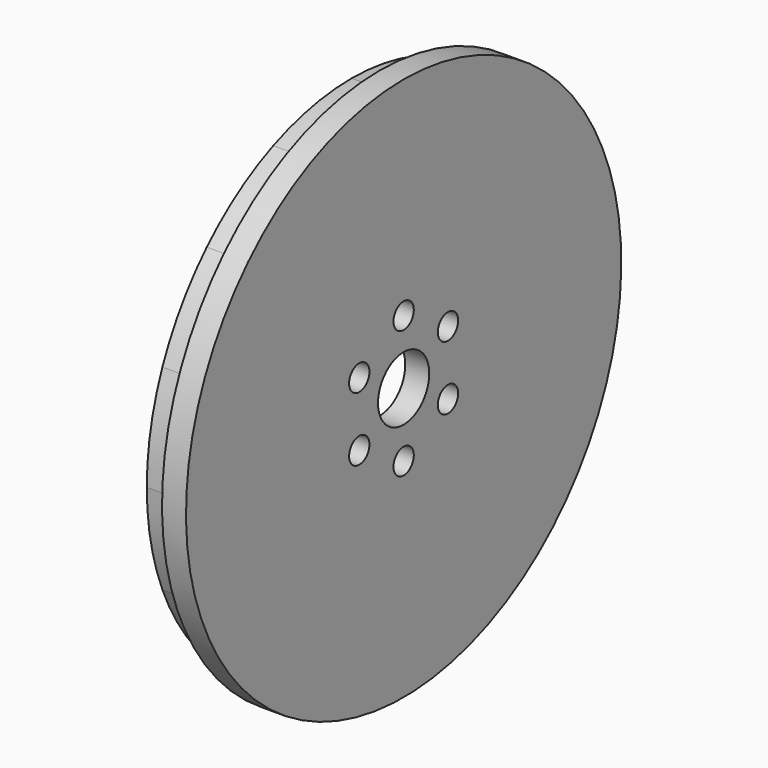
from build123d import *

# Parameters (mm, degrees)
F2_ANGLE = 22.5
F3_COUNT = 16
F5_D     = 10.0838


with BuildPart() as f1:
    # F0 (on Front) → F1 (revolve)
    with BuildSketch(Plane.XZ):
        Polygon((-9.525, 50.8), (-9.525, 12.7), (0, 12.7), (0, 107.95), (-9.525, 107.95), (-9.525, 101.6), (-7.9375, 101.6), (-7.9375, 50.8), align=None)
    revolve(axis=Axis((0, 0, 0), (1, 0, 0)))

    # F5 (through all)
    with Locations(Plane(origin=(-9.525, 0, 0), x_dir=(0, -1, 0), z_dir=(-1, 0, 0))):
        with Locations((0, 25.4), (-21.9970452561, 12.7), (-21.9970452561, -12.7), (0, -25.4), (21.9970452561, -12.7), (21.9970452561, 12.7)):
            Hole(F5_D / 2)


with BuildPart() as f2:
    # F0 (on Front) → F2 (revolve)
    with BuildSketch(Plane.XZ):
        Polygon((-20.6375, 50.8), (-9.525, 50.8), (-7.9375, 50.8), (-7.9375, 101.6), (-9.525, 101.6), (-20.6375, 101.6), align=None)
    revolve(axis=Axis((0, 0, 0), (1, 0, 0)), revolution_arc=F2_ANGLE)


with BuildPart() as f3_1:
    # F3: instance of F2
    add(f2.part.rotate(Axis((0, 0, 0), (1, 0, 0)), 1 * 360 / F3_COUNT))


with BuildPart() as f3_2:
    # F3: instance of F2
    add(f2.part.rotate(Axis((0, 0, 0), (1, 0, 0)), 2 * 360 / F3_COUNT))


with BuildPart() as f3_3:
    # F3: instance of F2
    add(f2.part.rotate(Axis((0, 0, 0), (1, 0, 0)), 3 * 360 / F3_COUNT))


with BuildPart() as f3_4:
    # F3: instance of F2
    add(f2.part.rotate(Axis((0, 0, 0), (1, 0, 0)), 4 * 360 / F3_COUNT))


with BuildPart() as f3_5:
    # F3: instance of F2
    add(f2.part.rotate(Axis((0, 0, 0), (1, 0, 0)), 5 * 360 / F3_COUNT))


with BuildPart() as f3_6:
    # F3: instance of F2
    add(f2.part.rotate(Axis((0, 0, 0), (1, 0, 0)), 6 * 360 / F3_COUNT))


with BuildPart() as f3_7:
    # F3: instance of F2
    add(f2.part.rotate(Axis((0, 0, 0), (1, 0, 0)), 7 * 360 / F3_COUNT))


with BuildPart() as f3_8:
    # F3: instance of F2
    add(f2.part.rotate(Axis((0, 0, 0), (1, 0, 0)), 8 * 360 / F3_COUNT))


with BuildPart() as f3_9:
    # F3: instance of F2
    add(f2.part.rotate(Axis((0, 0, 0), (1, 0, 0)), 9 * 360 / F3_COUNT))


with BuildPart() as f3_10:
    # F3: instance of F2
    add(f2.part.rotate(Axis((0, 0, 0), (1, 0, 0)), 10 * 360 / F3_COUNT))


with BuildPart() as f3_11:
    # F3: instance of F2
    add(f2.part.rotate(Axis((0, 0, 0), (1, 0, 0)), 11 * 360 / F3_COUNT))


with BuildPart() as f3_12:
    # F3: instance of F2
    add(f2.part.rotate(Axis((0, 0, 0), (1, 0, 0)), 12 * 360 / F3_COUNT))


with BuildPart() as f3_13:
    # F3: instance of F2
    add(f2.part.rotate(Axis((0, 0, 0), (1, 0, 0)), 13 * 360 / F3_COUNT))


with BuildPart() as f3_14:
    # F3: instance of F2
    add(f2.part.rotate(Axis((0, 0, 0), (1, 0, 0)), 14 * 360 / F3_COUNT))


with BuildPart() as f3_15:
    # F3: instance of F2
    add(f2.part.rotate(Axis((0, 0, 0), (1, 0, 0)), 15 * 360 / F3_COUNT))


solid = Compound([f1.part, f2.part, f3_1.part, f3_2.part, f3_3.part, f3_4.part, f3_5.part, f3_6.part, f3_7.part, f3_8.part, f3_9.part, f3_10.part, f3_11.part, f3_12.part, f3_13.part, f3_14.part, f3_15.part])
